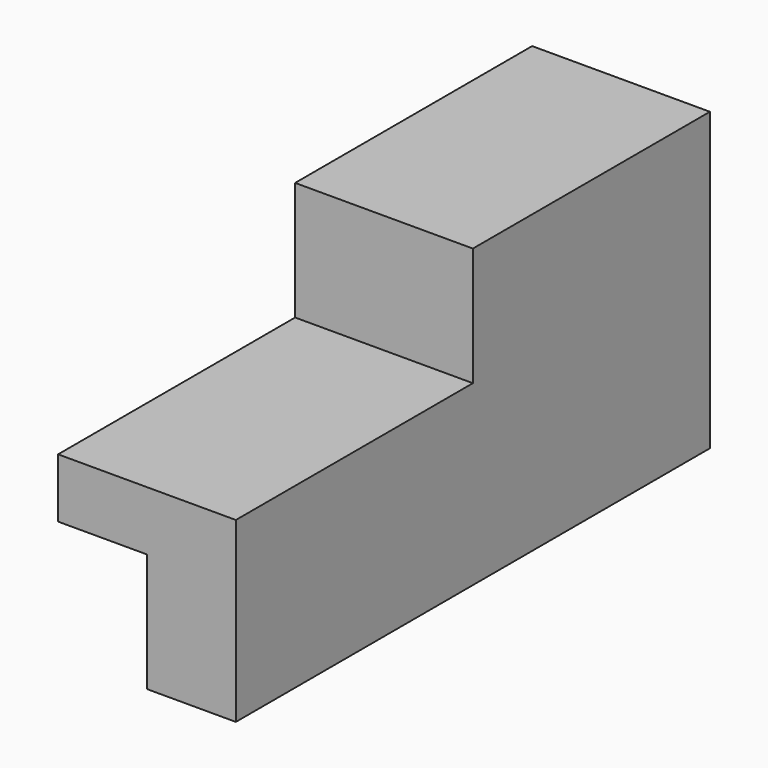
from build123d import *

# Parameters (mm, degrees)
F1_DEPTH = 127
F0_W     = 38.1
F0_H     = 25.4
F2_DEPTH = 63.5


with BuildPart() as f1:
    # F0 (on Front) → F1 (new body)
    with BuildSketch(Plane.XZ):
        Polygon((0, -6.35), (0, -31.75), (19.05, -31.75), (19.05, -6.35), (19.05, 6.35), (-19.05, 6.35), (-19.05, -6.35), align=None)
    extrude(amount=F1_DEPTH)

    # F0 (on Front) → F2 (join)
    with BuildSketch(Plane.XZ):
        Polygon((0, -6.35), (0, -31.75), (19.05, -31.75), (19.05, -6.35), (19.05, 6.35), (-19.05, 6.35), (-19.05, -6.35), align=None)
        with Locations((0, 19.05)):
            Rectangle(F0_W, F0_H)
    extrude(amount=F2_DEPTH)


solid = f1.part
